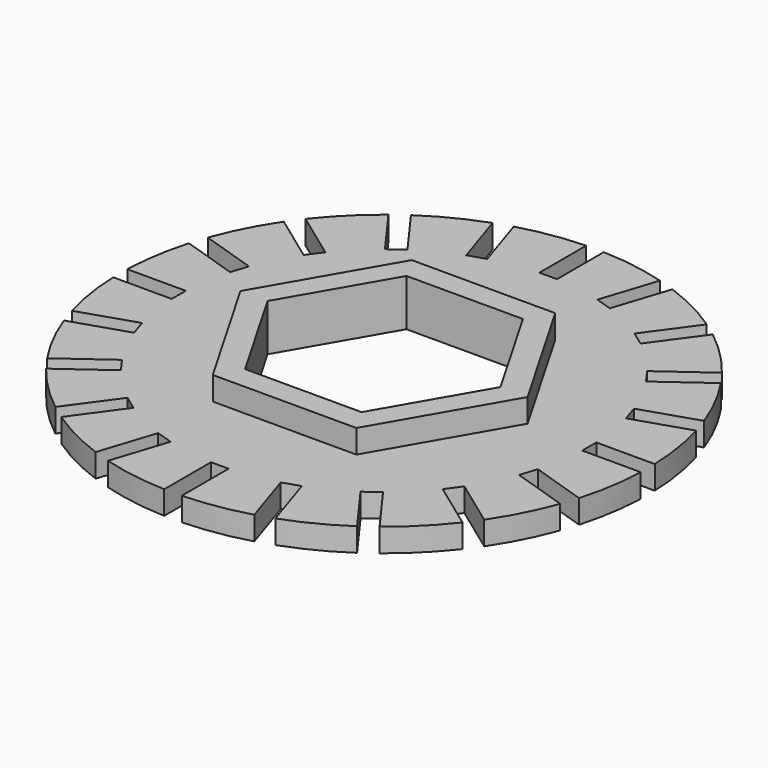
from build123d import *

# Parameters (mm, degrees)
PAD_DEPTH          = 4
SKETCH001_R        = 22.5
PAD001_DEPTH       = 2
SKETCH002_W        = 1.5
SKETCH002_H        = 5
POCKET_DEPTH       = 129.531389
POLARPATTERN_COUNT = 20


with BuildPart() as part:
    # Sketch → Pad (new body)
    with BuildSketch(Plane.XY):
        Polygon((-6.119913, 10.6), (-12.239826, 0), (-6.119913, -10.6), (6.119913, -10.6), (12.239826, 0), (6.119913, 10.6), align=None)
        Polygon((-4.965212, 8.6), (-9.930425, 0), (-4.965212, -8.6), (4.965212, -8.6), (9.930425, 0), (4.965212, 8.6), align=None, mode=Mode.SUBTRACT)
    extrude(amount=PAD_DEPTH)

    # Sketch001 (on Face13 of Pad) → Pad001 (join)
    with BuildSketch(Plane(origin=(0, 0, 0), x_dir=(1, 0, 0), z_dir=(0, 0, -1))):
        Circle(SKETCH001_R)
        Polygon((-6.119913, 10.6), (-12.239826, 0), (-6.119913, -10.6), (6.119913, -10.6), (12.239826, 0), (6.119913, 10.6), align=None, mode=Mode.SUBTRACT)
    extrude(amount=-PAD001_DEPTH)

    # Sketch002 (on Face2 of Pad001) → Pocket (cut, through all)
    with BuildSketch(Plane.XY.offset(2)):
        with Locations((0, 20)):
            Rectangle(SKETCH002_W, SKETCH002_H)
    pocket = extrude(amount=-POCKET_DEPTH, mode=Mode.SUBTRACT)

    # PolarPattern: Pocket ×20 about axis
    polarpattern_axis = Axis((0, 0, 0), (0, 0, 1))
    for i in range(1, POLARPATTERN_COUNT):
        add(pocket.rotate(polarpattern_axis, i * 360 / POLARPATTERN_COUNT), mode=Mode.SUBTRACT)


solid = part.part
